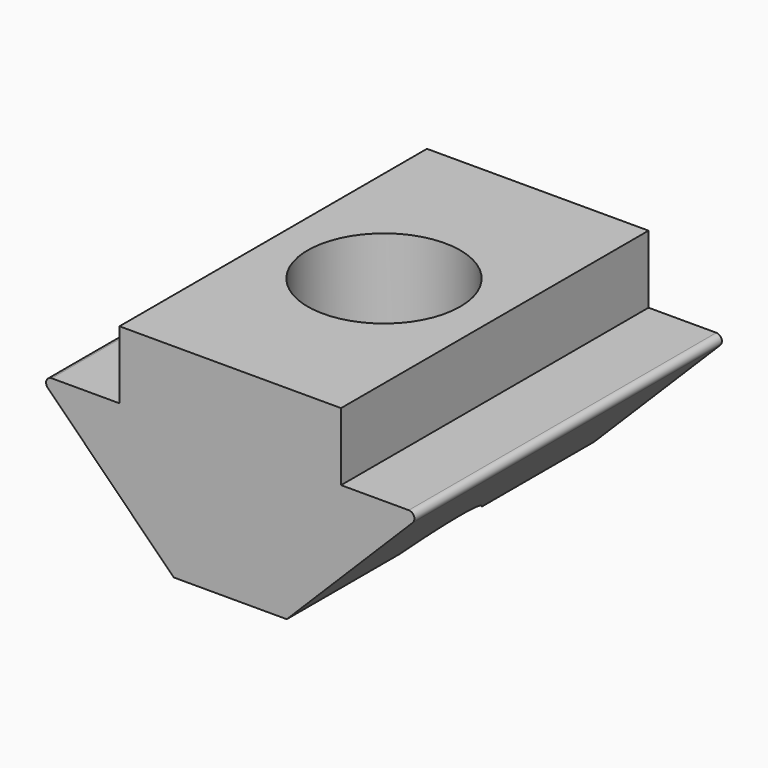
from build123d import *

# Parameters (mm, degrees)
PAD027_DEPTH  = 8.5
SKETCH076_R   = 3.375
HOLE015_DEPTH = 9.001
FILLET005_R   = 0.25


with BuildPart() as part:
    # Sketch075 → Pad027 (new body, symmetric)
    with BuildSketch(Plane.XZ):
        Polygon((-4.9, -3), (-4.9, 0), (4.9, 0), (4.9, -3), (8.5, -3), (2.5, -9), (-2.5, -9), (-8.5, -3), align=None)
    extrude(amount=PAD027_DEPTH, both=True)

    # Sketch076 → Hole015 (cut, through all)
    with BuildSketch(Plane.XY):
        Circle(SKETCH076_R)
    extrude(amount=-HOLE015_DEPTH, mode=Mode.SUBTRACT)

    # Fillet005
    fillet005_edges = [part.edges().sort_by_distance(p)[0] for p in [
        (8.5, 0, -3),
        (-8.5, 0, -3),
    ]]
    fillet(fillet005_edges, radius=FILLET005_R)


solid = part.part
